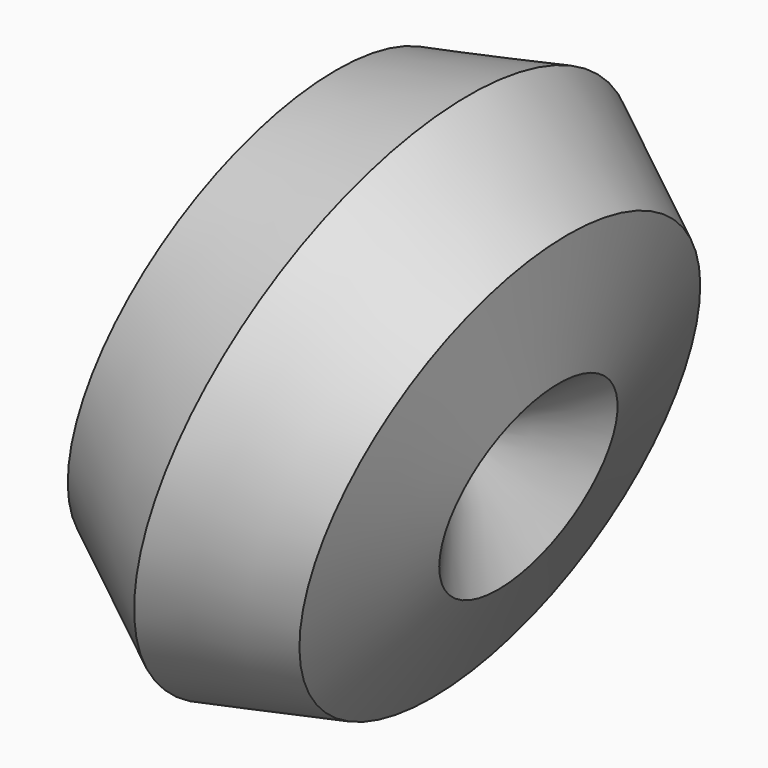
from build123d import *

# Parameters (mm, degrees)
F0_R = 27.2077204557


with BuildPart() as f1:
    # F0 (on Front) → F1 (revolve)
    with BuildSketch(Plane.XZ):
        Polygon((-11.3866792669, -37.9487298791), (22.5700333392, -32.5631104048), (39.5310504961, -2.6568046292), (26.724380343, 29.250129221), (-6.2062932864, 39.131119174), (-34.4635014859, 19.5455782595), (-36.7689901391, -14.7581817415), align=None)
        Circle(F0_R, mode=Mode.SUBTRACT)
        Circle(F0_R)
    revolve(axis=Axis((10.2590435283, 0, 34.1906241975), (0.9578119718, 0, -0.2873955928)))


solid = f1.part
